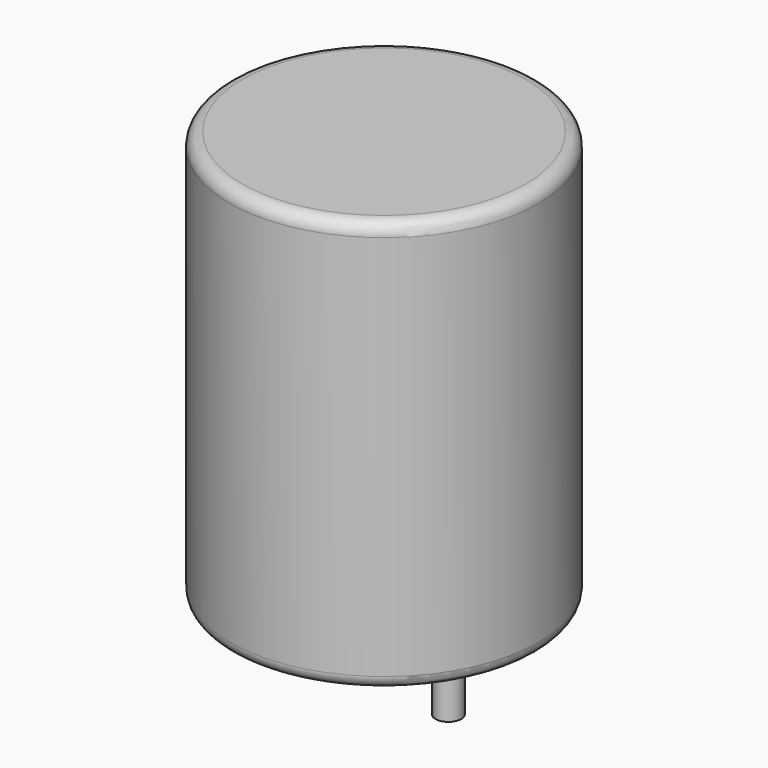
from build123d import *

# Parameters (mm, degrees)
SKETCH001_R       = 0.5
PAD001_DEPTH      = 8
PAD001_DEPTH_BACK = 3.5
SKETCH_R          = 6
PAD_DEPTH         = 16
FILLET_R          = 0.5


with BuildPart() as pad001:
    # Sketch001 → Pad001 (new body, two sides)
    with BuildSketch(Plane.XY.offset(0.5)) as pad001_sk:
        Circle(SKETCH001_R)
        with Locations((5, 0)):
            Circle(SKETCH001_R)
    extrude(amount=PAD001_DEPTH)
    extrude(pad001_sk.sketch, amount=-PAD001_DEPTH_BACK)


with BuildPart() as fillet_body:
    # Sketch → Pad (new body)
    with BuildSketch(Plane.XY.offset(0.1)):
        with Locations((2.5, 0)):
            Circle(SKETCH_R)
    extrude(amount=PAD_DEPTH)

    # Fillet
    fillet_edges = [fillet_body.edges().sort_by_distance(p)[0] for p in [
        (-3.5, 0, 0.1),
        (-3.5, 0, 16.1),
    ]]
    fillet(fillet_edges, radius=FILLET_R)


solid = Compound([pad001.part, fillet_body.part])
